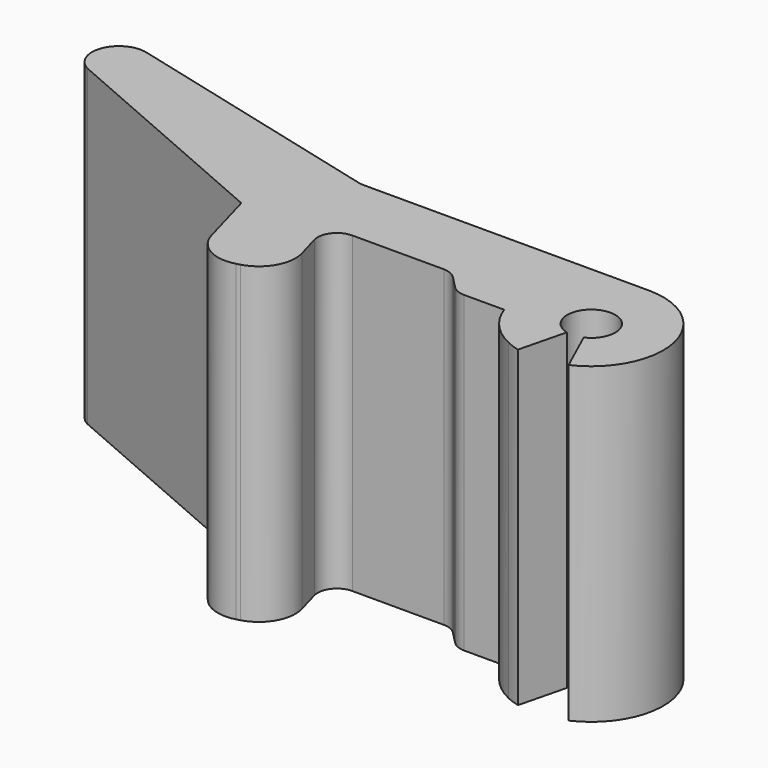
from build123d import *

# Parameters (mm, degrees)
F1_DEPTH = 414.02


with BuildPart() as f1:
    # F0 (on Top) → F1 (new body)
    with BuildSketch(Plane.XY):
        with BuildLine():
            ThreePointArc((-22.678571, -22.220371), (5.834358, 31.209338), (13.119638, -28.912585))
            Line((13.119638, -28.912585), (39.358915, -86.737756))
            ThreePointArc((39.358915, -86.737756), (93.09762, 20.134439), (0, 95.25))
            Line((0, 95.25), (-377.79173, 95.25))
            ThreePointArc((-377.79173, 95.25), (-380.97471, 95.450225), (-384.107507, 96.047745))
            Line((-384.107507, 96.047745), (-737.10295, 186.667108))
            ThreePointArc((-737.10295, 186.667108), (-779.664846, 165.49677), (-763.147534, 120.922377))
            Line((-763.147534, 120.922377), (-450.789555, -15.050607))
            Line((-450.789555, -15.050607), (-429.644375, -90.898277))
            ThreePointArc((-429.644375, -90.898277), (-406.864498, -119.973868), (-370.197145, -124.42561))
            Line((-370.197145, -124.42561), (-365.303747, -123.061405))
            ThreePointArc((-365.303747, -123.061405), (-336.228156, -100.281528), (-331.776414, -63.614175))
            Line((-331.776414, -63.614175), (-340.528348, -32.221026))
            ThreePointArc((-340.528348, -32.221026), (-336.290224, -10.039239), (-316.061358, 0))
            Line((-316.061358, 0), (-195.084265, 0))
            ThreePointArc((-195.084265, 0), (-185.244497, -1.983361), (-176.941408, -7.623703))
            Line((-176.941408, -7.623703), (-160.772234, -24.126297))
            ThreePointArc((-160.772234, -24.126297), (-152.469145, -29.766639), (-142.629377, -31.75))
            Line((-142.629377, -31.75), (-89.802561, -31.75))
            ThreePointArc((-89.802561, -31.75), (-80.826523, -50.394799), (-68.035714, -66.661114))
            ThreePointArc((-68.035714, -66.661114), (-55.003139, -77.763856), (-40.193506, -86.354181))
            ThreePointArc((-40.193506, -86.354181), (-31.730159, -89.809574), (-22.974543, -92.437724))
            Line((-22.974543, -92.437724), (-7.658181, -30.812575))
            ThreePointArc((-7.658181, -30.812575), (-10.57672, -29.936525), (-13.397835, -28.784727))
            ThreePointArc((-13.397835, -28.784727), (-18.33438, -25.921285), (-22.678571, -22.220371))
        make_face()
    extrude(amount=-F1_DEPTH)


solid = f1.part
